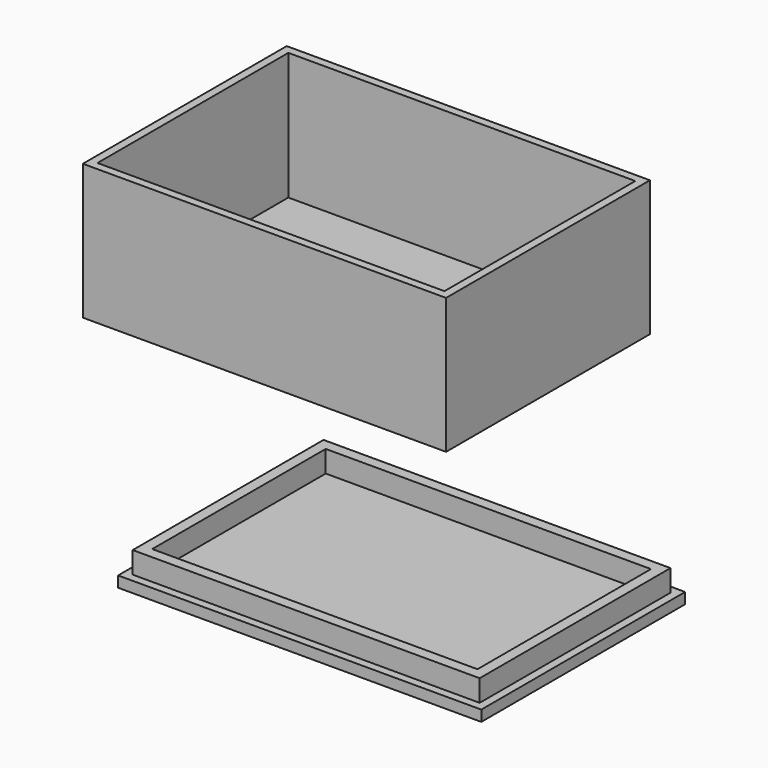
from build123d import *

# Parameters (mm, degrees)
F0_W        = 67
F0_H        = 47
F1_DEPTH    = 25
F2_T        = -1.5
F3_W        = 64
F3_H        = 44
F3_W_2      = 60
F3_H_2      = 40
F4_DEPTH    = 4
F3_W_3      = 67
F3_H_3      = 47
F4_FACE_W   = 64
F4_FACE_H   = 44
F4_FACE_W_2 = 60
F4_FACE_H_2 = 40
F5_DEPTH    = 2


with BuildPart() as f1:
    # F0 (on Top) → F1 (new body)
    with BuildSketch(Plane.XY):
        with Locations((-23.9398897778, 22.3815400898)):
            Rectangle(F0_W, F0_H)
    extrude(amount=F1_DEPTH)

    # F2
    f2_openings = [f1.faces().sort_by_distance(p)[0] for p in [
        (-23.93989, 22.38154, 25),
    ]]
    offset(amount=F2_T, openings=f2_openings)


with BuildPart() as f4:
    # F3 (on Top) → F4 (new body)
    with BuildSketch(Plane.XY):
        with Locations((32.6481368393, -40.2324752252)):
            Rectangle(F3_W, F3_H)
        with Locations((32.6481368393, -40.2324752252)):
            Rectangle(F3_W_2, F3_H_2, mode=Mode.SUBTRACT)
    extrude(amount=F4_DEPTH)

    # F3 (on Top) + F4_face (on face) → F5 (join)
    with BuildSketch(Plane.XY):
        with Locations((32.6481368393, -40.2324752252)):
            Rectangle(F3_W_3, F3_H_3)
        with Locations((32.6481368393, -40.2324752252)):
            Rectangle(F3_W, F3_H, mode=Mode.SUBTRACT)
        with Locations((32.6481368393, -40.2324752252)):
            Rectangle(F3_W, F3_H)
        with Locations((32.6481368393, -40.2324752252)):
            Rectangle(F3_W_2, F3_H_2, mode=Mode.SUBTRACT)
        with Locations((32.6481368393, -40.2324752252)):
            Rectangle(F3_W_2, F3_H_2)
    with BuildSketch(Plane(origin=(32.6481368393, -40.2324752252, 4), x_dir=(1, 0, 0), z_dir=(0, 0, 1))):
        Rectangle(F4_FACE_W, F4_FACE_H)
        Rectangle(F4_FACE_W_2, F4_FACE_H_2, mode=Mode.SUBTRACT)
    extrude(amount=F5_DEPTH)


solid = Compound([f1.part, f4.part])
